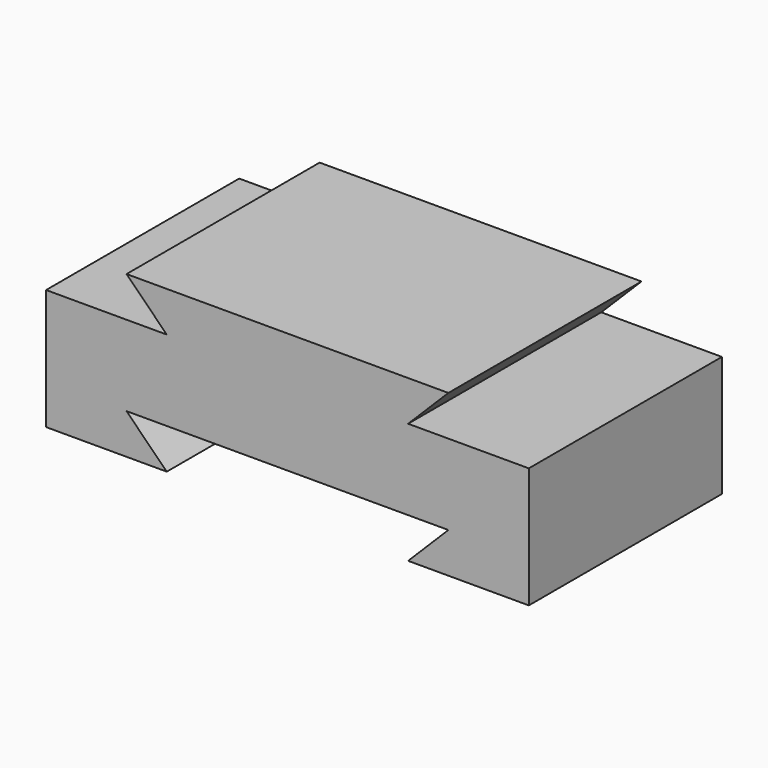
from build123d import *

# Parameters (mm, degrees)
F1_DEPTH = 38.1


with BuildPart() as f1:
    # F0 (on Front) → F1 (new body, symmetric)
    with BuildSketch(Plane.XZ):
        Polygon((0, 50.8), (0, 12.7), (50.8, 12.7), (38.1, 0), (76.2, 0), (76.2, 38.1), (38.1, 38.1), (50.8, 50.8), align=None)
    extrude(amount=F1_DEPTH, both=True)

    # F2: F1 across face


with BuildPart() as f1_1:
    add(f1.part)
    add(f1.part.mirror(Plane(origin=(0, 0, 31.75), x_dir=(0, -1, 0), z_dir=(-1, 0, 0))))


solid = f1_1.part
